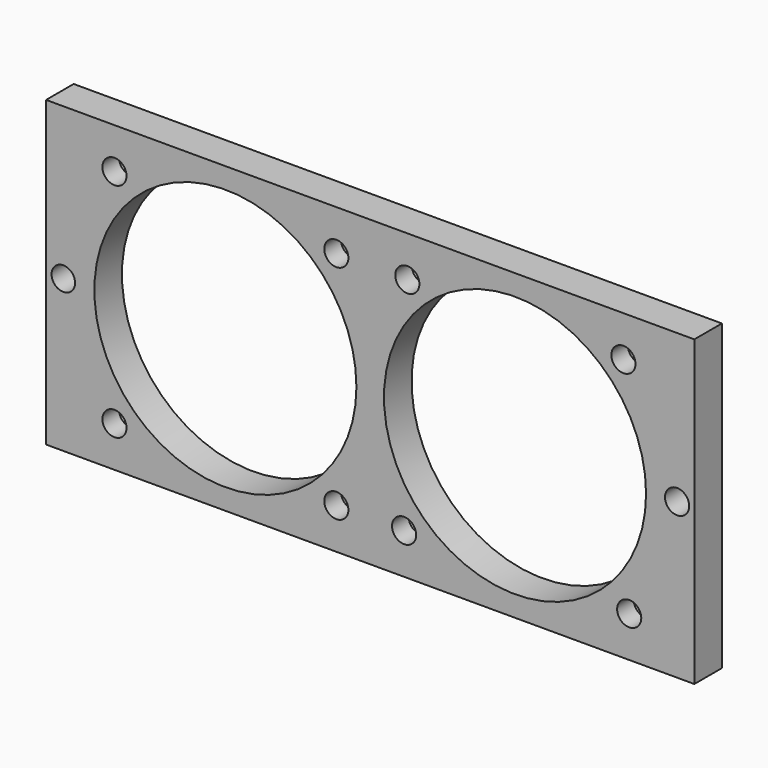
from build123d import *

# Parameters (mm, degrees)
F0_W     = 94
F0_H     = 44
F0_R     = 2.75
F0_R_2   = 1.7038186653
F0_R_3   = 19
F0_R_4   = 1.75
F1_DEPTH = 5
F2_DEPTH = 2
F2_TAPER = -3


with BuildPart() as f1:
    # F0 (on Front) → F1 (new body)
    with BuildSketch(Plane.XZ):
        Rectangle(F0_W, F0_H)
        with Locations((-37.086679272, -16.086679272)):
            Circle(F0_R, mode=Mode.SUBTRACT)
        with Locations((-4.913320728, -16.086679272)):
            Circle(F0_R, mode=Mode.SUBTRACT)
        with Locations((4.913320728, -16.086679272)):
            Circle(F0_R, mode=Mode.SUBTRACT)
        with Locations((37.556679272, -16.086679272)):
            Circle(F0_R, mode=Mode.SUBTRACT)
        with Locations((-44.5, 0)):
            Circle(F0_R_2, mode=Mode.SUBTRACT)
        with Locations((-21, 0)):
            Circle(F0_R_3, mode=Mode.SUBTRACT)
        with Locations((-37.086679272, 16.086679272)):
            Circle(F0_R, mode=Mode.SUBTRACT)
        with Locations((-4.913320728, 16.086679272)):
            Circle(F0_R, mode=Mode.SUBTRACT)
        with Locations((21, 0)):
            Circle(F0_R_3, mode=Mode.SUBTRACT)
        with Locations((44.5, 0.47)):
            Circle(F0_R_4, mode=Mode.SUBTRACT)
        with Locations((5.383320728, 16.086679272)):
            Circle(F0_R, mode=Mode.SUBTRACT)
        with Locations((36.7173222003, 16.086679272)):
            Circle(F0_R, mode=Mode.SUBTRACT)
        with Locations((-37.086679272, 16.086679272)):
            Circle(F0_R)
        with Locations((-37.086679272, 16.086679272)):
            Circle(F0_R_4, mode=Mode.SUBTRACT)
        with Locations((-4.913320728, 16.086679272)):
            Circle(F0_R)
        with Locations((-4.913320728, 16.086679272)):
            Circle(F0_R_4, mode=Mode.SUBTRACT)
        with Locations((-37.086679272, -16.086679272)):
            Circle(F0_R)
        with Locations((-37.086679272, -16.086679272)):
            Circle(F0_R_4, mode=Mode.SUBTRACT)
        with Locations((-4.913320728, -16.086679272)):
            Circle(F0_R)
        with Locations((-4.913320728, -16.086679272)):
            Circle(F0_R_4, mode=Mode.SUBTRACT)
        with Locations((5.383320728, 16.086679272)):
            Circle(F0_R)
        with Locations((5.383320728, 16.086679272)):
            Circle(F0_R_4, mode=Mode.SUBTRACT)
        with Locations((36.7173222003, 16.086679272)):
            Circle(F0_R)
        with Locations((36.7173222003, 16.086679272)):
            Circle(F0_R_4, mode=Mode.SUBTRACT)
        with Locations((37.556679272, -16.086679272)):
            Circle(F0_R)
        with Locations((37.556679272, -16.086679272)):
            Circle(F0_R_4, mode=Mode.SUBTRACT)
        with Locations((4.913320728, -16.086679272)):
            Circle(F0_R)
        with Locations((4.913320728, -16.086679272)):
            Circle(F0_R_4, mode=Mode.SUBTRACT)
    extrude(amount=F1_DEPTH)

    # F0 (on Front) → F2 (cut)
    with BuildSketch(Plane.XZ):
        with Locations((-37.086679272, 16.086679272)):
            Circle(F0_R)
        with Locations((-37.086679272, 16.086679272)):
            Circle(F0_R_4, mode=Mode.SUBTRACT)
        with Locations((-37.086679272, -16.086679272)):
            Circle(F0_R)
        with Locations((-37.086679272, -16.086679272)):
            Circle(F0_R_4, mode=Mode.SUBTRACT)
        with Locations((-4.913320728, -16.086679272)):
            Circle(F0_R)
        with Locations((-4.913320728, -16.086679272)):
            Circle(F0_R_4, mode=Mode.SUBTRACT)
        with Locations((4.913320728, -16.086679272)):
            Circle(F0_R)
        with Locations((4.913320728, -16.086679272)):
            Circle(F0_R_4, mode=Mode.SUBTRACT)
        with Locations((37.556679272, -16.086679272)):
            Circle(F0_R)
        with Locations((37.556679272, -16.086679272)):
            Circle(F0_R_4, mode=Mode.SUBTRACT)
        with Locations((36.7173222003, 16.086679272)):
            Circle(F0_R)
        with Locations((36.7173222003, 16.086679272)):
            Circle(F0_R_4, mode=Mode.SUBTRACT)
        with Locations((5.383320728, 16.086679272)):
            Circle(F0_R)
        with Locations((5.383320728, 16.086679272)):
            Circle(F0_R_4, mode=Mode.SUBTRACT)
        with Locations((-4.913320728, 16.086679272)):
            Circle(F0_R)
        with Locations((-4.913320728, 16.086679272)):
            Circle(F0_R_4, mode=Mode.SUBTRACT)
    extrude(amount=F2_DEPTH, taper=F2_TAPER, mode=Mode.SUBTRACT)


solid = f1.part
